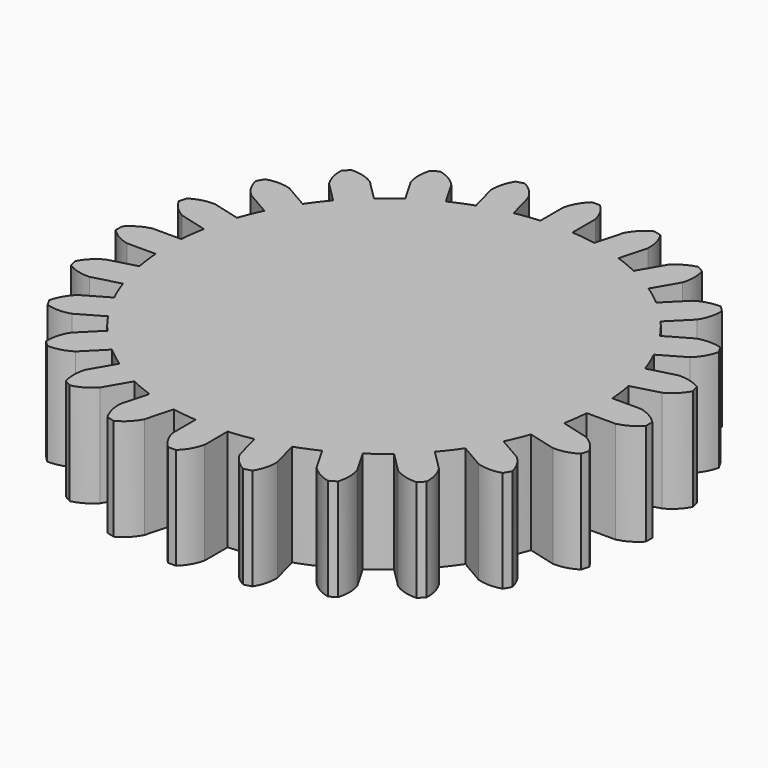
from build123d import *

# Parameters (mm, degrees)
F1_DEPTH = 5


with BuildPart() as f1:
    # F0 (on Top) → F1 (new body)
    with BuildSketch(Plane.XY):
        with BuildLine():
            Line((-0.785398, 11.97427), (-0.785398, 10.570863))
            ThreePointArc((-0.785398, 10.570863), (-1.383578, 10.509316), (-1.977304, 10.413946))
            Line((-1.977304, 10.413946), (-2.340533, 11.769533))
            ThreePointArc((-2.340533, 11.769533), (-2.694353, 12.250687), (-3.174469, 12.605915))
            ThreePointArc((-3.174469, 12.605915), (-3.364503, 12.556495), (-3.553787, 12.504277))
            ThreePointArc((-3.553787, 12.504277), (-3.791966, 11.956583), (-3.857806, 11.362981))
            Line((-3.857806, 11.362981), (-3.494577, 10.007394))
            ThreePointArc((-3.494577, 10.007394), (-4.056444, 9.793123), (-4.605257, 9.547335))
            Line((-4.605257, 9.547335), (-5.30696, 10.762721))
            ThreePointArc((-5.30696, 10.762721), (-5.773256, 11.135906), (-6.328952, 11.354766))
            ThreePointArc((-6.328952, 11.354766), (-6.49972, 11.257845), (-6.66904, 11.158416))
            ThreePointArc((-6.66904, 11.158416), (-6.757349, 10.567739), (-6.66731, 9.977323))
            Line((-6.66731, 9.977323), (-5.965606, 8.761937))
            ThreePointArc((-5.965606, 8.761937), (-6.452871, 8.409545), (-6.919369, 8.030089))
            Line((-6.919369, 8.030089), (-7.911727, 9.022448))
            ThreePointArc((-7.911727, 9.022448), (-8.458722, 9.26223), (-9.052128, 9.329808))
            ThreePointArc((-9.052128, 9.329808), (-9.191992, 9.191992), (-9.329808, 9.052128))
            ThreePointArc((-9.329808, 9.052128), (-9.26223, 8.458722), (-9.022448, 7.911727))
            Line((-9.022448, 7.911727), (-8.030089, 6.919369))
            ThreePointArc((-8.030089, 6.919369), (-8.409545, 6.452871), (-8.761937, 5.965606))
            Line((-8.761937, 5.965606), (-9.977323, 6.66731))
            ThreePointArc((-9.977323, 6.66731), (-10.567739, 6.757349), (-11.158416, 6.66904))
            ThreePointArc((-11.158416, 6.66904), (-11.257845, 6.49972), (-11.354766, 6.328952))
            ThreePointArc((-11.354766, 6.328952), (-11.135906, 5.773256), (-10.762721, 5.30696))
            Line((-10.762721, 5.30696), (-9.547335, 4.605257))
            ThreePointArc((-9.547335, 4.605257), (-9.793123, 4.056444), (-10.007394, 3.494577))
            Line((-10.007394, 3.494577), (-11.362981, 3.857806))
            ThreePointArc((-11.362981, 3.857806), (-11.956583, 3.791966), (-12.504277, 3.553787))
            ThreePointArc((-12.504277, 3.553787), (-12.556495, 3.364503), (-12.605915, 3.174469))
            ThreePointArc((-12.605915, 3.174469), (-12.250687, 2.694353), (-11.769533, 2.340533))
            Line((-11.769533, 2.340533), (-10.413946, 1.977304))
            ThreePointArc((-10.413946, 1.977304), (-10.509316, 1.383578), (-10.570863, 0.785398))
            Line((-10.570863, 0.785398), (-11.97427, 0.785398))
            ThreePointArc((-11.97427, 0.785398), (-12.530605, 0.568166), (-12.997992, 0.19635))
            ThreePointArc((-12.997992, 0.19635), (-12.99944, 0), (-12.997992, -0.19635))
            ThreePointArc((-12.997992, -0.19635), (-12.530605, -0.568166), (-11.97427, -0.785398))
            Line((-11.97427, -0.785398), (-10.570863, -0.785398))
            ThreePointArc((-10.570863, -0.785398), (-10.509316, -1.383578), (-10.413946, -1.977304))
            Line((-10.413946, -1.977304), (-11.769533, -2.340533))
            ThreePointArc((-11.769533, -2.340533), (-12.250687, -2.694353), (-12.605915, -3.174469))
            ThreePointArc((-12.605915, -3.174469), (-12.556495, -3.364503), (-12.504277, -3.553787))
            ThreePointArc((-12.504277, -3.553787), (-11.956583, -3.791966), (-11.362981, -3.857806))
            Line((-11.362981, -3.857806), (-10.007394, -3.494577))
            ThreePointArc((-10.007394, -3.494577), (-9.793123, -4.056444), (-9.547335, -4.605257))
            Line((-9.547335, -4.605257), (-10.762721, -5.30696))
            ThreePointArc((-10.762721, -5.30696), (-11.135906, -5.773256), (-11.354766, -6.328952))
            ThreePointArc((-11.354766, -6.328952), (-11.257845, -6.49972), (-11.158416, -6.66904))
            ThreePointArc((-11.158416, -6.66904), (-10.567739, -6.757349), (-9.977323, -6.66731))
            Line((-9.977323, -6.66731), (-8.761937, -5.965606))
            ThreePointArc((-8.761937, -5.965606), (-8.409545, -6.452871), (-8.030089, -6.919369))
            Line((-8.030089, -6.919369), (-9.022448, -7.911727))
            ThreePointArc((-9.022448, -7.911727), (-9.26223, -8.458722), (-9.329808, -9.052128))
            ThreePointArc((-9.329808, -9.052128), (-9.191992, -9.191992), (-9.052128, -9.329808))
            ThreePointArc((-9.052128, -9.329808), (-8.458722, -9.26223), (-7.911727, -9.022448))
            Line((-7.911727, -9.022448), (-6.919369, -8.030089))
            ThreePointArc((-6.919369, -8.030089), (-6.452871, -8.409545), (-5.965606, -8.761937))
            Line((-5.965606, -8.761937), (-6.66731, -9.977323))
            ThreePointArc((-6.66731, -9.977323), (-6.757349, -10.567739), (-6.66904, -11.158416))
            ThreePointArc((-6.66904, -11.158416), (-6.49972, -11.257845), (-6.328952, -11.354766))
            ThreePointArc((-6.328952, -11.354766), (-5.773256, -11.135906), (-5.30696, -10.762721))
            Line((-5.30696, -10.762721), (-4.605257, -9.547335))
            ThreePointArc((-4.605257, -9.547335), (-4.056444, -9.793123), (-3.494577, -10.007394))
            Line((-3.494577, -10.007394), (-3.857806, -11.362981))
            ThreePointArc((-3.857806, -11.362981), (-3.791966, -11.956583), (-3.553787, -12.504277))
            ThreePointArc((-3.553787, -12.504277), (-3.364503, -12.556495), (-3.174469, -12.605915))
            ThreePointArc((-3.174469, -12.605915), (-2.694353, -12.250687), (-2.340533, -11.769533))
            Line((-2.340533, -11.769533), (-1.977304, -10.413946))
            ThreePointArc((-1.977304, -10.413946), (-1.383578, -10.509316), (-0.785398, -10.570863))
            Line((-0.785398, -10.570863), (-0.785398, -11.97427))
            ThreePointArc((-0.785398, -11.97427), (-0.568166, -12.530605), (-0.19635, -12.997992))
            ThreePointArc((-0.19635, -12.997992), (0, -12.99944), (0.19635, -12.997992))
            ThreePointArc((0.19635, -12.997992), (0.568166, -12.530605), (0.785398, -11.97427))
            Line((0.785398, -11.97427), (0.785398, -10.570863))
            ThreePointArc((0.785398, -10.570863), (1.383578, -10.509316), (1.977304, -10.413946))
            Line((1.977304, -10.413946), (2.340533, -11.769533))
            ThreePointArc((2.340533, -11.769533), (2.694353, -12.250687), (3.174469, -12.605915))
            ThreePointArc((3.174469, -12.605915), (3.364503, -12.556495), (3.553787, -12.504277))
            ThreePointArc((3.553787, -12.504277), (3.791966, -11.956583), (3.857806, -11.362981))
            Line((3.857806, -11.362981), (3.494577, -10.007394))
            ThreePointArc((3.494577, -10.007394), (4.056444, -9.793123), (4.605257, -9.547335))
            Line((4.605257, -9.547335), (5.30696, -10.762721))
            ThreePointArc((5.30696, -10.762721), (5.773256, -11.135906), (6.328952, -11.354766))
            ThreePointArc((6.328952, -11.354766), (6.49972, -11.257845), (6.66904, -11.158416))
            ThreePointArc((6.66904, -11.158416), (6.757349, -10.567739), (6.66731, -9.977323))
            Line((6.66731, -9.977323), (5.965606, -8.761937))
            ThreePointArc((5.965606, -8.761937), (6.452871, -8.409545), (6.919369, -8.030089))
            Line((6.919369, -8.030089), (7.911727, -9.022448))
            ThreePointArc((7.911727, -9.022448), (8.458722, -9.26223), (9.052128, -9.329808))
            ThreePointArc((9.052128, -9.329808), (9.191992, -9.191992), (9.329808, -9.052128))
            ThreePointArc((9.329808, -9.052128), (9.26223, -8.458722), (9.022448, -7.911727))
            Line((9.022448, -7.911727), (8.030089, -6.919369))
            ThreePointArc((8.030089, -6.919369), (8.409545, -6.452871), (8.761937, -5.965606))
            Line((8.761937, -5.965606), (9.977323, -6.66731))
            ThreePointArc((9.977323, -6.66731), (10.567739, -6.757349), (11.158416, -6.66904))
            ThreePointArc((11.158416, -6.66904), (11.257845, -6.49972), (11.354766, -6.328952))
            ThreePointArc((11.354766, -6.328952), (11.135906, -5.773256), (10.762721, -5.30696))
            Line((10.762721, -5.30696), (9.547335, -4.605257))
            ThreePointArc((9.547335, -4.605257), (9.793123, -4.056444), (10.007394, -3.494577))
            Line((10.007394, -3.494577), (11.362981, -3.857806))
            ThreePointArc((11.362981, -3.857806), (11.956583, -3.791966), (12.504277, -3.553787))
            ThreePointArc((12.504277, -3.553787), (12.556495, -3.364503), (12.605915, -3.174469))
            ThreePointArc((12.605915, -3.174469), (12.250687, -2.694353), (11.769533, -2.340533))
            Line((11.769533, -2.340533), (10.413946, -1.977304))
            ThreePointArc((10.413946, -1.977304), (10.509316, -1.383578), (10.570863, -0.785398))
            Line((10.570863, -0.785398), (11.97427, -0.785398))
            ThreePointArc((11.97427, -0.785398), (12.530605, -0.568166), (12.997992, -0.19635))
            ThreePointArc((12.997992, -0.19635), (12.99944, 0), (12.997992, 0.19635))
            ThreePointArc((12.997992, 0.19635), (12.530605, 0.568166), (11.97427, 0.785398))
            Line((11.97427, 0.785398), (10.570863, 0.785398))
            ThreePointArc((10.570863, 0.785398), (10.509316, 1.383578), (10.413946, 1.977304))
            Line((10.413946, 1.977304), (11.769533, 2.340533))
            ThreePointArc((11.769533, 2.340533), (12.250687, 2.694353), (12.605915, 3.174469))
            ThreePointArc((12.605915, 3.174469), (12.556495, 3.364503), (12.504277, 3.553787))
            ThreePointArc((12.504277, 3.553787), (11.956583, 3.791966), (11.362981, 3.857806))
            Line((11.362981, 3.857806), (10.007394, 3.494577))
            ThreePointArc((10.007394, 3.494577), (9.793123, 4.056444), (9.547335, 4.605257))
            Line((9.547335, 4.605257), (10.762721, 5.30696))
            ThreePointArc((10.762721, 5.30696), (11.135906, 5.773256), (11.354766, 6.328952))
            ThreePointArc((11.354766, 6.328952), (11.257845, 6.49972), (11.158416, 6.66904))
            ThreePointArc((11.158416, 6.66904), (10.567739, 6.757349), (9.977323, 6.66731))
            Line((9.977323, 6.66731), (8.761937, 5.965606))
            ThreePointArc((8.761937, 5.965606), (8.409545, 6.452871), (8.030089, 6.919369))
            Line((8.030089, 6.919369), (9.022448, 7.911727))
            ThreePointArc((9.022448, 7.911727), (9.26223, 8.458722), (9.329808, 9.052128))
            ThreePointArc((9.329808, 9.052128), (9.191992, 9.191992), (9.052128, 9.329808))
            ThreePointArc((9.052128, 9.329808), (8.458722, 9.26223), (7.911727, 9.022448))
            Line((7.911727, 9.022448), (6.919369, 8.030089))
            ThreePointArc((6.919369, 8.030089), (6.452871, 8.409545), (5.965606, 8.761937))
            Line((5.965606, 8.761937), (6.66731, 9.977323))
            ThreePointArc((6.66731, 9.977323), (6.757349, 10.567739), (6.66904, 11.158416))
            ThreePointArc((6.66904, 11.158416), (6.49972, 11.257845), (6.328952, 11.354766))
            ThreePointArc((6.328952, 11.354766), (5.773256, 11.135906), (5.30696, 10.762721))
            Line((5.30696, 10.762721), (4.605257, 9.547335))
            ThreePointArc((4.605257, 9.547335), (4.056444, 9.793123), (3.494577, 10.007394))
            Line((3.494577, 10.007394), (3.857806, 11.362981))
            ThreePointArc((3.857806, 11.362981), (3.791966, 11.956583), (3.553787, 12.504277))
            ThreePointArc((3.553787, 12.504277), (3.364503, 12.556495), (3.174469, 12.605915))
            ThreePointArc((3.174469, 12.605915), (2.694353, 12.250687), (2.340533, 11.769533))
            Line((2.340533, 11.769533), (1.977304, 10.413946))
            ThreePointArc((1.977304, 10.413946), (1.383578, 10.509316), (0.785398, 10.570863))
            Line((0.785398, 10.570863), (0.785398, 11.97427))
            ThreePointArc((0.785398, 11.97427), (0.568166, 12.530605), (0.19635, 12.997992))
            ThreePointArc((0.19635, 12.997992), (0, 12.99944), (-0.19635, 12.997992))
            ThreePointArc((-0.19635, 12.997992), (-0.568166, 12.530605), (-0.785398, 11.97427))
        make_face()
    extrude(amount=F1_DEPTH)


solid = f1.part
